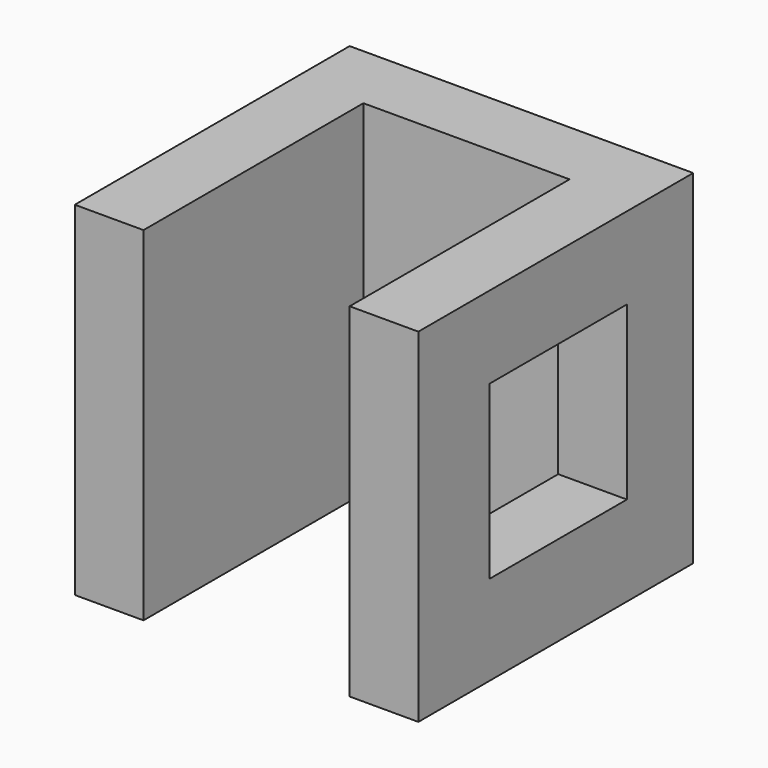
from build123d import *

# Parameters (mm, degrees)
F1_DEPTH = 50
F2_W     = 25
F2_H     = 25
F3_DEPTH = 27


with BuildPart() as f1:
    # F0 (on Top) → F1 (new body)
    with BuildSketch(Plane.XY):
        Polygon((0, 50), (0, 0), (10.000001, 0), (10.000001, 39.999999), (39.999999, 39.999999), (39.999999, 0), (50, 0), (50, 50), align=None)
    extrude(amount=F1_DEPTH)

    # F2 (on face) → F3 (cut)
    with BuildSketch(Plane.YZ.offset(50)):
        with Locations((25.438407, 25.569198)):
            Rectangle(F2_W, F2_H)
    extrude(amount=-F3_DEPTH, mode=Mode.SUBTRACT)


solid = f1.part
